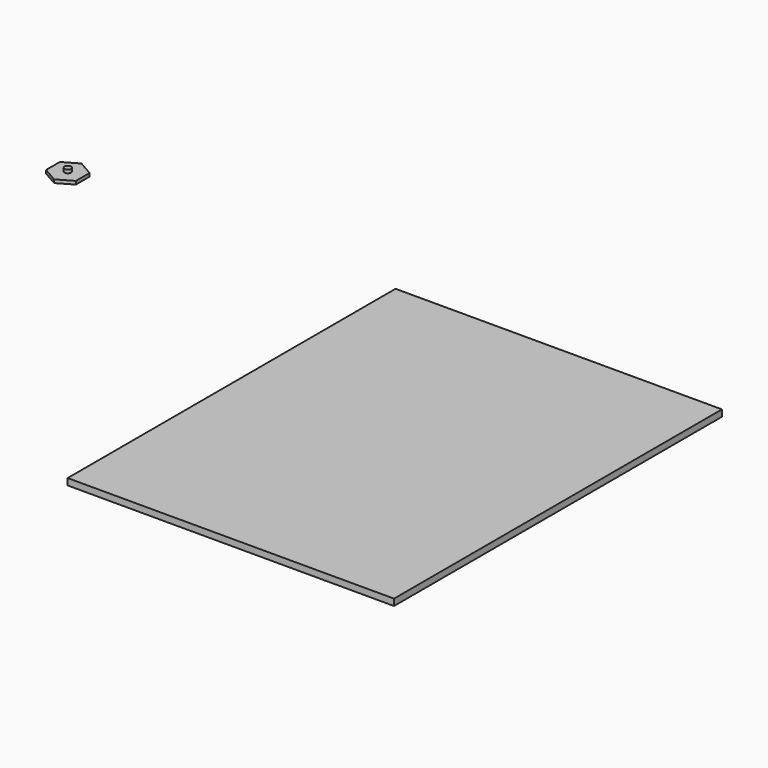
from build123d import *

# Parameters (mm, degrees)
F1_DEPTH = 5
F2_R     = 5
F3_DEPTH = 5
F4_W     = 500
F4_H     = 627.879878
F5_DEPTH = 10


with BuildPart() as f1:
    # F0 (on Top) → F1 (new body)
    with BuildSketch(Plane.XY):
        Polygon((22.793479, -13.159821), (22.793479, 13.159821), (0, 26.319643), (-22.793479, 13.159821), (-22.793479, -13.159821), (0, -26.319643), align=None)
    extrude(amount=F1_DEPTH)

    # F2 (on face) → F3 (join)
    with BuildSketch(Plane.XY.offset(5)):
        Circle(F2_R)
    extrude(amount=F3_DEPTH)


with BuildPart() as f5:
    # F4 (on Top) → F5 (new body)
    with BuildSketch(Plane.XY):
        with Locations((752.005506, -313.939939)):
            Rectangle(F4_W, F4_H)
    extrude(amount=F5_DEPTH)


solid = Compound([f1.part, f5.part])
